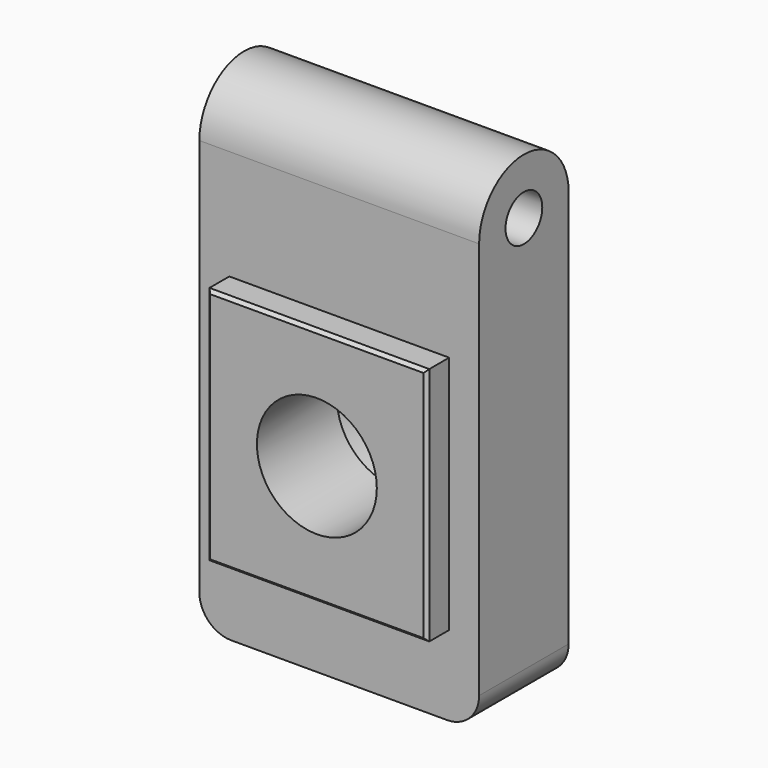
from build123d import *

# Parameters (mm, degrees)
F0_R     = 3.65
F1_DEPTH = 44.45
F3_W     = 34.925
F3_H     = 38.1
F4_DEPTH = 22.225
F5_SIZE  = 0.508
F2_R     = 12.7
F2_R_2   = 9.525
F6_DEPTH = 6.35
F7_DEPTH = 25.4
F8_R     = 5.08


with BuildPart() as f1:
    # F0 (on Right) → F1 (new body)
    with BuildSketch(Plane.YZ):
        with BuildLine():
            Line((-17.78, 0), (0, 0))
            Line((0, 0), (0, 68.2625))
            ThreePointArc((0, 68.2625), (-8.89, 77.1525), (-17.78, 68.2625))
            Line((-17.78, 68.2625), (-17.78, 0))
        make_face()
        with Locations((-8.89, 68.2625)):
            Circle(F0_R, mode=Mode.SUBTRACT)
    extrude(amount=F1_DEPTH)

    # F3 (on Front) → F4 (join)
    with BuildSketch(Plane.XZ):
        with Locations((22.225, 31.75)):
            Rectangle(F3_W, F3_H)
    extrude(amount=F4_DEPTH)

    # F5
    f5_edges = [f1.edges().sort_by_distance(p)[0] for p in [
        (4.7625, -22.225, 31.75),
        (22.225, -22.225, 50.8),
        (22.225, -22.225, 12.7),
        (39.6875, -22.225, 31.75),
    ]]
    chamfer(f5_edges, length=F5_SIZE)

    # F2 (on Front) → F6 (cut)
    with BuildSketch(Plane.XZ):
        with Locations((22.225, 31.75)):
            Circle(F2_R)
        with Locations((22.225, 31.75)):
            Circle(F2_R_2, mode=Mode.SUBTRACT)
    extrude(amount=F6_DEPTH, mode=Mode.SUBTRACT)

    # F2 (on Front) → F7 (cut)
    with BuildSketch(Plane.XZ):
        with Locations((22.225, 31.75)):
            Circle(F2_R_2)
    extrude(amount=F7_DEPTH, mode=Mode.SUBTRACT)

    # F8
    f8_edges = [f1.edges().sort_by_distance(p)[0] for p in [
        (0, -8.89, 0),
        (44.45, -8.89, 0),
    ]]
    fillet(f8_edges, radius=F8_R)


solid = f1.part
